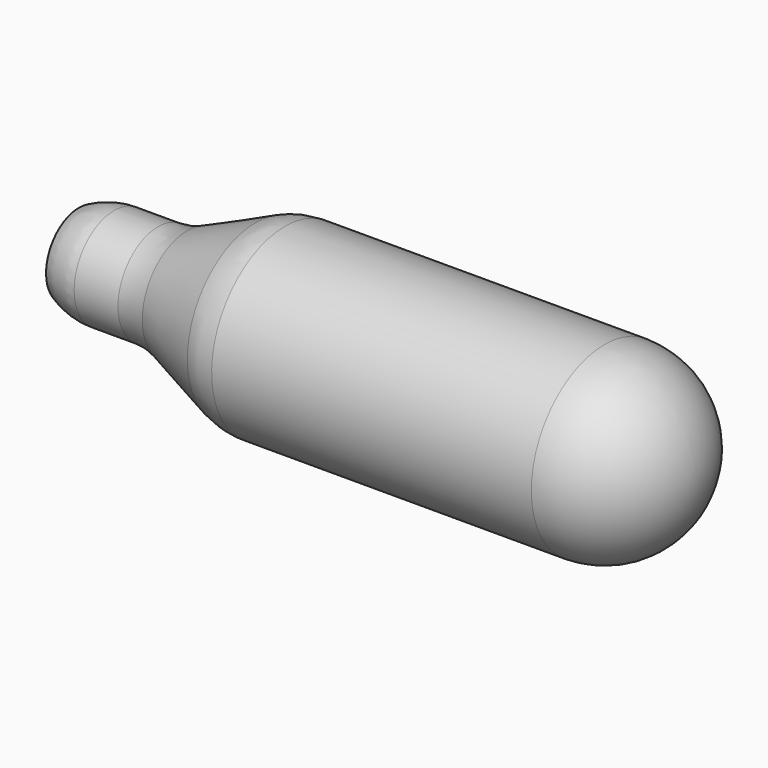
from build123d import *

# Parameters (mm, degrees)
F2_R = 9.5
F3_R = 7.62


with BuildPart() as f1:
    # F0 (on Front) → F1 (revolve)
    with BuildSketch(Plane.XZ):
        Polygon((0, 4.25), (0, 0), (64, 0), (64, 9.5), (19.793399, 9.5), (9.774541, 5.186723), (1.774541, 5.186723), align=None)
    revolve(axis=Axis((32, 0, 0), (1, 0, 0)))

    # F2
    f2_edges = [f1.edges().sort_by_distance(p)[0] for p in [
        (64, 0, -9.5),
    ]]
    fillet(f2_edges, radius=F2_R)

    # F3
    f3_edges = [f1.edges().sort_by_distance(p)[0] for p in [
        (19.793399, 0, -9.5),
        (1.774541, 0, -5.186723),
        (9.774541, 0, -5.186723),
    ]]
    fillet(f3_edges, radius=F3_R)


solid = f1.part
